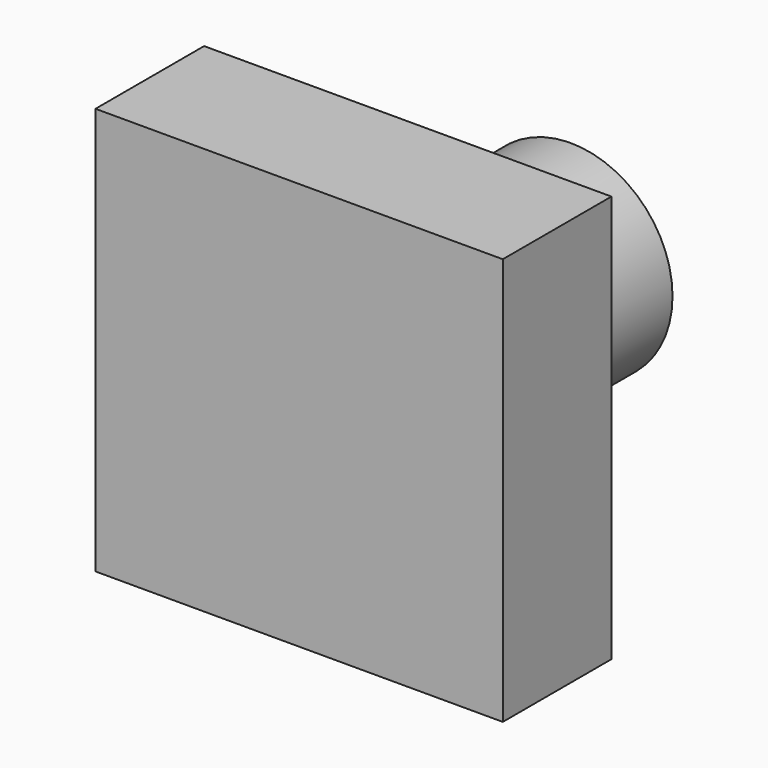
from build123d import *

# Parameters (mm, degrees)
F0_W     = 76.2
F0_H     = 76.2
F2_DEPTH = 25.4
F1_R     = 19.05
F3_DEPTH = 38.1


with BuildPart() as f2:
    # F0 (on Front) → F2 (new body)
    with BuildSketch(Plane.XZ):
        Rectangle(F0_W, F0_H)
    extrude(amount=F2_DEPTH)

    # F1 (on face) → F3 (join)
    with BuildSketch(Plane.XZ):
        Circle(F1_R)
    extrude(amount=-F3_DEPTH)


solid = f2.part
